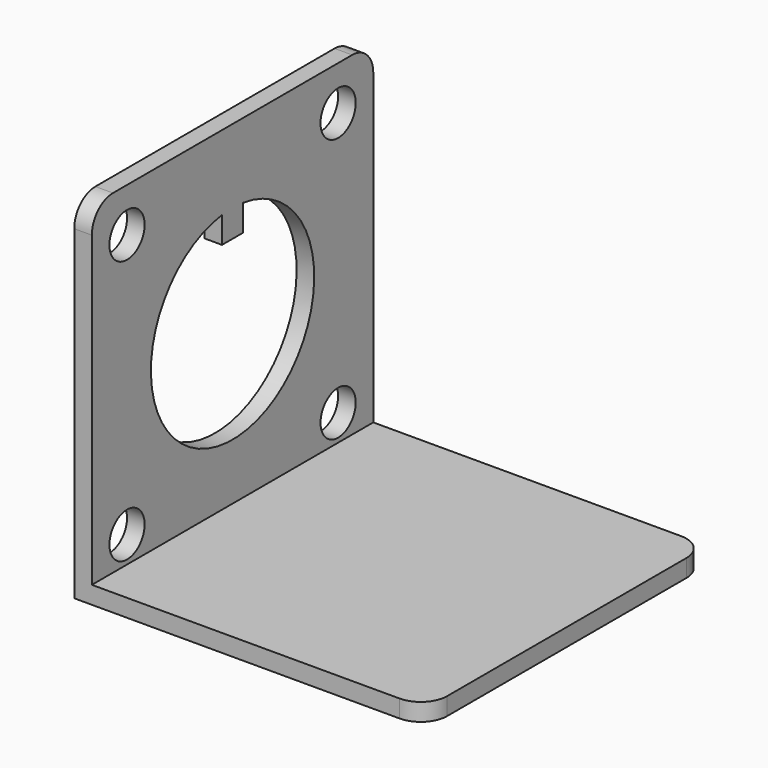
from build123d import *

# Parameters (mm, degrees)
F1_DEPTH = 40
F3_D     = 5
F5_DEPTH = 20
F6_R     = 3


with BuildPart() as f1:
    # F0 (on Front) → F1 (new body)
    with BuildSketch(Plane.XZ):
        Polygon((0, 40), (0, 0), (40, 0), (40, 2), (2, 2), (2, 40), align=None)
    extrude(amount=F1_DEPTH)

    # F3 (through all)
    with Locations(Plane(origin=(0, 0, 0), x_dir=(0, -1, 0), z_dir=(-1, 0, 0))):
        with Locations((5, 5), (5, 35), (35, 5), (35, 35)):
            Hole(F3_D / 2)

    # F4 (on face) → F5 (cut)
    with BuildSketch(Plane(origin=(0, 0, 0), x_dir=(0, -1, 0), z_dir=(-1, 0, 0))):
        with BuildLine():
            Line((18.5, 28.506096), (18.5, 31.506096))
            ThreePointArc((18.5, 31.506096), (20, 8.396542), (21.5, 31.506096))
            Line((21.5, 31.506096), (21.5, 28.506096))
            Line((21.5, 28.506096), (20, 28.506096))
            Line((20, 28.506096), (18.5, 28.506096))
        make_face()
    extrude(amount=-F5_DEPTH, mode=Mode.SUBTRACT)

    # F6
    f6_edges = [f1.edges().sort_by_distance(p)[0] for p in [
        (1, -40, 40),
        (1, 0, 40),
        (40, -40, 1),
        (40, 0, 1),
    ]]
    fillet(f6_edges, radius=F6_R)


solid = f1.part
